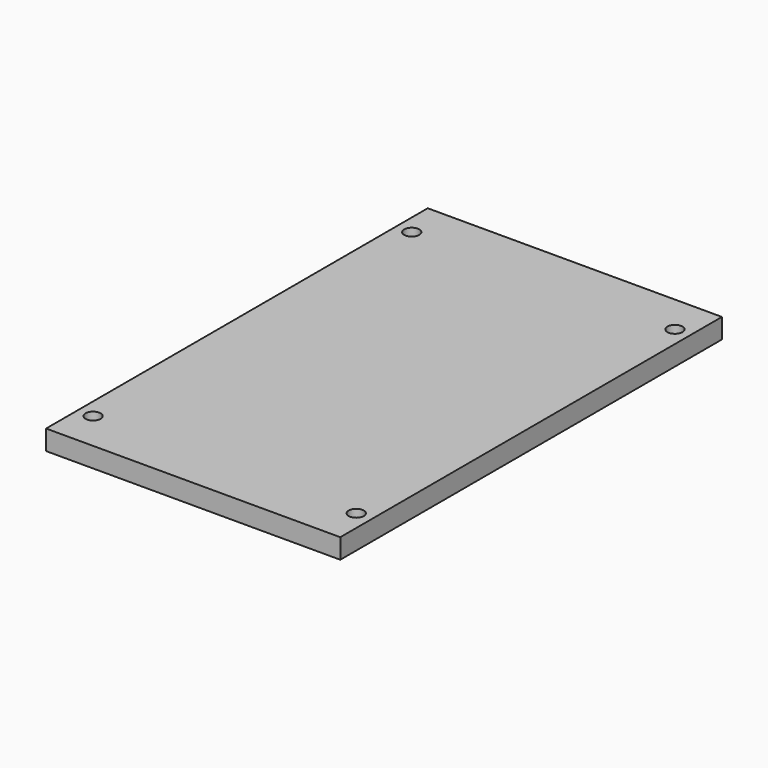
from build123d import *

# Parameters (mm, degrees)
F0_W     = 93.98
F0_H     = 6.35
F1_DEPTH = 152.4
F2_R     = 2.413
F3_DEPTH = 6.351


with BuildPart() as f1:
    # F0 (on Front) → F1 (new body)
    with BuildSketch(Plane.XZ):
        with Locations((46.99, 3.175)):
            Rectangle(F0_W, F0_H)
    extrude(amount=F1_DEPTH)

    # F2 (on face) → F3 (cut, through all)
    with BuildSketch(Plane.XY.offset(6.35)):
        with Locations((89.027, -12.573)):
            Circle(F2_R)
        with Locations((4.953, -12.573)):
            Circle(F2_R)
        with Locations((89.027, -139.827)):
            Circle(F2_R)
        with Locations((4.953, -139.827)):
            Circle(F2_R)
    extrude(amount=-F3_DEPTH, mode=Mode.SUBTRACT)


solid = f1.part
